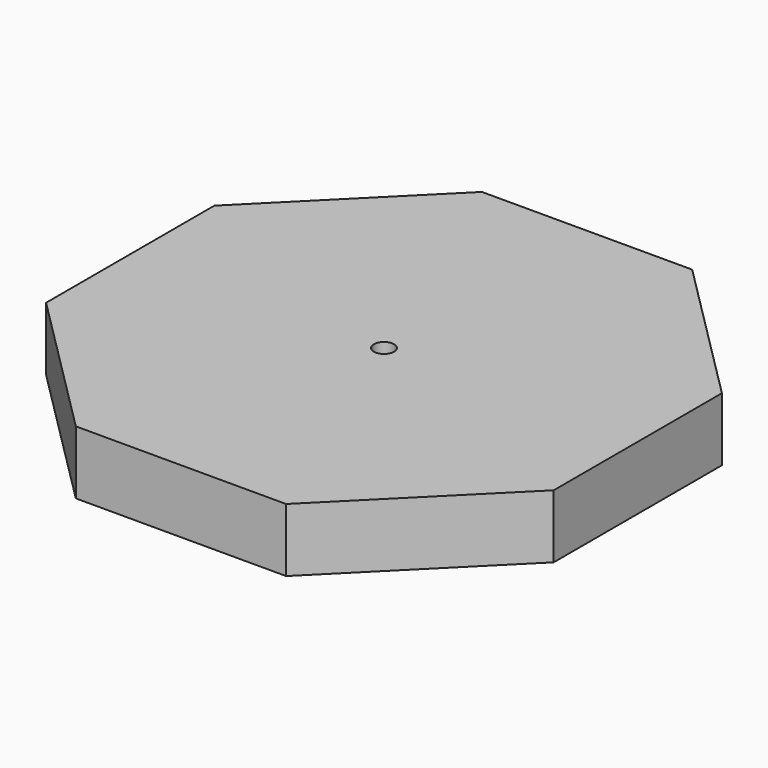
from build123d import *

# Parameters (mm, degrees)
CYLINDER_R     = 16
CYLINDER_DEPTH = 120
PAD_DEPTH      = 100


with BuildPart() as cylinder:
    # Cylinder → Cylinder (new body)
    with BuildSketch(Plane.XY):
        Circle(CYLINDER_R)
    extrude(amount=CYLINDER_DEPTH)


with BuildPart() as cut:
    # Sketch → Pad (new body)
    with BuildSketch(Plane.XY):
        Polygon((400, -165.685425), (400, 165.685425), (165.685425, 400), (-165.685425, 400), (-400, 165.685425), (-400, -165.685425), (-165.685425, -400), (165.685425, -400), align=None)
    extrude(amount=PAD_DEPTH)

    # Cut: cut Cylinder
    add(cylinder.part, mode=Mode.SUBTRACT)


solid = cut.part
